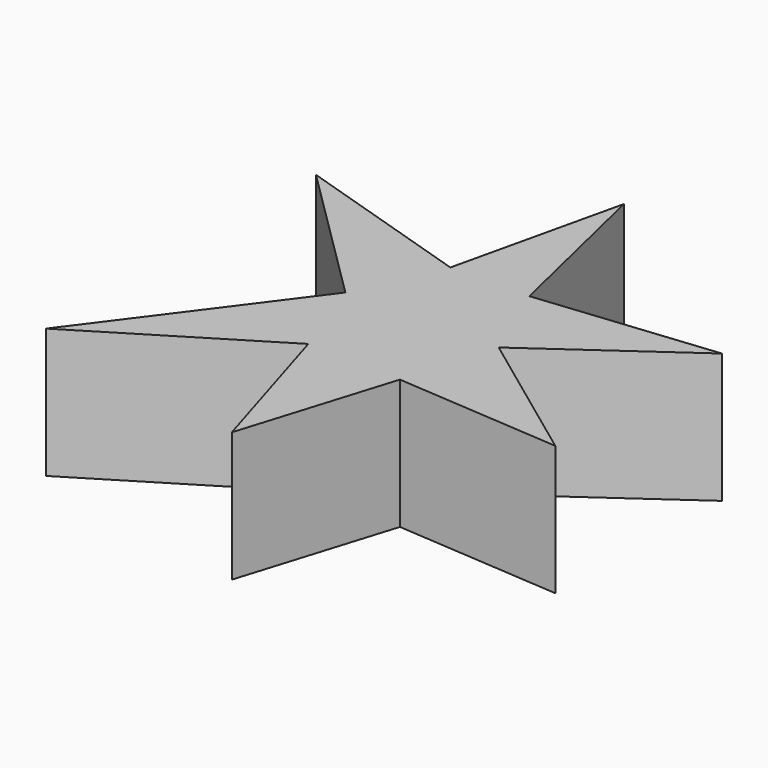
from build123d import *

# Parameters (mm, degrees)
PAD_DEPTH = 17


with BuildPart() as part:
    # Sketch001 → Pad (new body)
    with BuildSketch(Plane.XY):
        Polygon((0.015784, 40.081264), (5.222221, 18.094849), (28.545909, 20.481527), (9.869751, 7.260084), (28.013795, -6.146813), (6.424127, -4.611549), (0.28961, -24.488155), (-5.831853, -4.294973), (-28.910112, -18.403276), (-9.99274, 6.972219), (-28.636134, 25.46274), (-5.069207, 18.016287), align=None)
    extrude(amount=PAD_DEPTH)


solid = part.part
